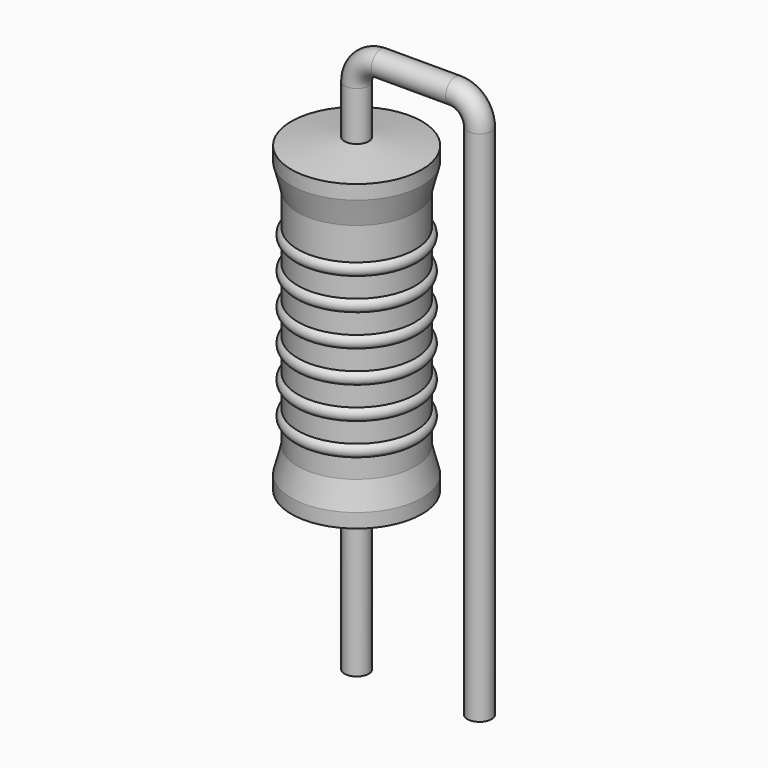
from build123d import *

# Parameters (mm, degrees)
SKETCH_R = 0.25


with BuildPart() as sweep_body:
    # Sweep: sweep along a path in Sketch001
    with BuildLine(Plane.XZ) as sweep_path:
        Line((0, -3), (0, 7.7))
        ThreePointArc((0, 7.7), (0.146444, 8.053551), (0.499992, 8.2))
        Line((0.499992, 8.2), (2.04, 8.2))
        ThreePointArc((2.04, 8.2), (2.393553, 8.053553), (2.54, 7.7))
        Line((2.54, 7.7), (2.54, -3))
    # Sketch → Sweep (sweep)
    with BuildSketch(Plane.XY.offset(-2)):
        Circle(SKETCH_R)
    sweep(path=sweep_path.line)


with BuildPart() as revolution:
    # Sketch002 → Revolution (revolve)
    with BuildSketch(Plane.XZ):
        Polygon((0, 0.1), (0, 6.7), (0.1875, 6.7), (1.35, 6.535), (1.35, 6.2425), (1.215, 5.71), (1.215, 1.09), (1.35, 0.5575), (1.35, 0.265), (0.1875, 0.1), align=None)
    revolve(axis=Axis((0, 0, 0), (0, 0, 1)))


with BuildPart() as revolution001:
    # Sketch003 → Revolution001 (revolve)
    with BuildSketch(Plane.XZ):
        with BuildLine():
            Line((1.08, 5.44), (1.08, 1.09))
            Line((1.08, 1.09), (1.161, 1.09))
            Line((1.161, 1.09), (1.161, 1.48))
            ThreePointArc((1.161, 1.48), (1.296, 1.615), (1.161, 1.75))
            Line((1.161, 1.75), (1.161, 2.14))
            ThreePointArc((1.161, 2.14), (1.296, 2.275), (1.161, 2.41))
            Line((1.161, 2.41), (1.161, 2.8))
            ThreePointArc((1.161, 2.8), (1.296, 2.935), (1.161, 3.07))
            Line((1.161, 3.07), (1.161, 3.46))
            ThreePointArc((1.161, 3.46), (1.296, 3.595), (1.161, 3.73))
            Line((1.161, 3.73), (1.161, 4.12))
            ThreePointArc((1.161, 4.12), (1.296, 4.255), (1.161, 4.39))
            Line((1.161, 4.39), (1.161, 4.78))
            ThreePointArc((1.161, 4.78), (1.296, 4.915), (1.161, 5.05))
            Line((1.161, 5.44), (1.161, 5.05))
            Line((1.08, 5.44), (1.161, 5.44))
        make_face()
    revolve(axis=Axis((0, 0, 0), (0, 0, 1)))


solid = Compound([sweep_body.part, revolution.part, revolution001.part])
